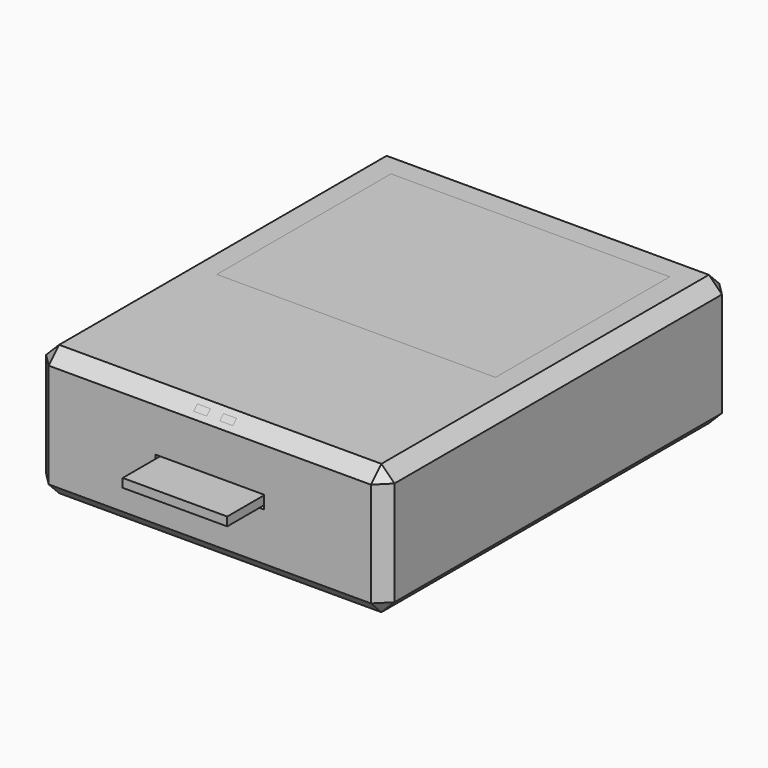
from build123d import *

# Parameters (mm, degrees)
F0_W      = 80
F0_H      = 100
F1_DEPTH  = 30
F2_SIZE   = 3
F3_W      = 64
F3_H      = 50
F4_DEPTH  = 5
F5_W      = 25
F5_H      = 3
F6_DEPTH  = 15
F7_W      = 3
F7_H      = 1.5
F8_DEPTH  = 3
F4_FACE_W = 64
F4_FACE_H = 50
F9_DEPTH  = 5
F8_FACE_W = 3
F8_FACE_H = 1.5
F10_DEPTH = 3
F11_W     = 24
F11_H     = 2
F12_DEPTH = 25


with BuildPart() as f1:
    # F0 (on Top) → F1 (new body)
    with BuildSketch(Plane.XY):
        with Locations((40, 50)):
            Rectangle(F0_W, F0_H)
    extrude(amount=F1_DEPTH)

    # F2
    f2_edges = [f1.edges().sort_by_distance(p)[0] for p in [
        (40, 0, 30),
        (80, 50, 30),
        (80, 0, 15),
        (0, 0, 15),
        (0, 50, 30),
        (40, 100, 30),
        (80, 100, 15),
        (80, 50, 0),
        (40, 0, 0),
        (0, 50, 0),
        (40, 100, 0),
        (0, 100, 15),
    ]]
    chamfer(f2_edges, length=F2_SIZE)

    # F3 (on face) → F4 (cut)
    with BuildSketch(Plane.XY.offset(30)):
        with Locations((40, 67)):
            Rectangle(F3_W, F3_H)
    extrude(amount=-F4_DEPTH, mode=Mode.SUBTRACT)

    # F5 (on face) → F6 (cut)
    with BuildSketch(Plane.XZ):
        with Locations((40, 15.5)):
            Rectangle(F5_W, F5_H)
    extrude(amount=-F6_DEPTH, mode=Mode.SUBTRACT)

    # F7 (on face) → F8 (cut)
    with BuildSketch(Plane(origin=(0, -13.5, 13.5), x_dir=(1, 0, 0), z_dir=(0, -0.707107, 0.707107))):
        with Locations((37, 21.213203)):
            Rectangle(F7_W, F7_H)
        with Locations((43, 21.213203)):
            Rectangle(F7_W, F7_H)
    extrude(amount=-F8_DEPTH, mode=Mode.SUBTRACT)


with BuildPart() as f9:
    # F4_face (on face) → F9 (new body)
    with BuildSketch(Plane(origin=(40, 67, 25), x_dir=(1, 0, 0), z_dir=(0, 0, 1))):
        Rectangle(F4_FACE_W, F4_FACE_H)
    extrude(amount=F9_DEPTH)


with BuildPart() as f10:
    # F8_face (on face) → F10 (new body)
    with BuildSketch(Plane(origin=(37, 3.62132, 26.37868), x_dir=(1, 0, 0), z_dir=(0, -0.707107, 0.707107))):
        Rectangle(F8_FACE_W, F8_FACE_H)
        with Locations((6, 0)):
            Rectangle(F8_FACE_W, F8_FACE_H)
    extrude(amount=F10_DEPTH)


with BuildPart() as f12:
    # F11 (on face) → F12 (new body)
    with BuildSketch(Plane.XZ.offset(-15)):
        with Locations((40, 15.5)):
            Rectangle(F11_W, F11_H)
    extrude(amount=F12_DEPTH)


solid = Compound([f1.part, f9.part, f10.part, f12.part])
